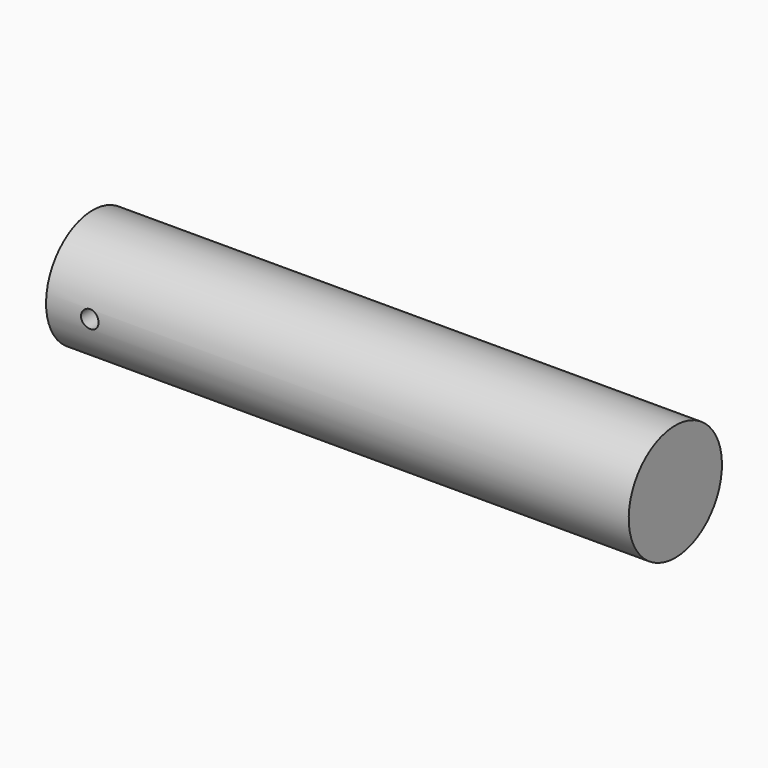
from build123d import *

# Parameters (mm, degrees)
CYLINDER137_R          = 3
CYLINDER137_DEPTH      = 60
CYLINDER137_ROLL_ANGLE = 90
BOX079_W               = 40
BOX079_H               = 18
BOX079_DEPTH           = 18
CYLINDER_R             = 20
CYLINDER_DEPTH         = 200
CYLINDER_PITCH_ANGLE   = 90


with BuildPart() as cilindro091:
    # Cylinder137 → Cylinder137 (new body)
    with BuildSketch(Plane.XY):
        Circle(CYLINDER137_R)
    extrude(amount=CYLINDER137_DEPTH)


with BuildPart() as cilindro091_1:
    # Cylinder137 roll: moved
    add(cilindro091.part.rotate(Axis((0, 0, 0), (1, 0, 0)), CYLINDER137_ROLL_ANGLE))


with BuildPart() as cilindro091_2:
    # Cylinder137 placement: moved
    add(cilindro091_1.part.moved(Location((5, 37, 765))))


with BuildPart() as cubo056:
    # Box079 → Box079 (new body)
    with BuildSketch(Plane(origin=(-10, -9, 755), x_dir=(1, 0, 0), z_dir=(0, 0, 1))):
        with Locations((20, 9)):
            Rectangle(BOX079_W, BOX079_H)
    extrude(amount=BOX079_DEPTH)


with BuildPart() as cut144:
    # Cylinder → Cylinder (new body)
    with BuildSketch(Plane.XY):
        Circle(CYLINDER_R)
    extrude(amount=CYLINDER_DEPTH)


with BuildPart() as cut144_1:
    # Cylinder pitch: moved
    add(cut144.part.rotate(Axis((0, 0, 0), (0, 1, 0)), CYLINDER_PITCH_ANGLE))


with BuildPart() as cut144_2:
    # Cylinder placement: moved
    add(cut144_1.part.moved(Location((-10, 0, 765))))

    # Cut143: cut Cubo056
    add(cubo056.part, mode=Mode.SUBTRACT)

    # Cut144: cut Cilindro091
    add(cilindro091_2.part, mode=Mode.SUBTRACT)


solid = cut144_2.part
